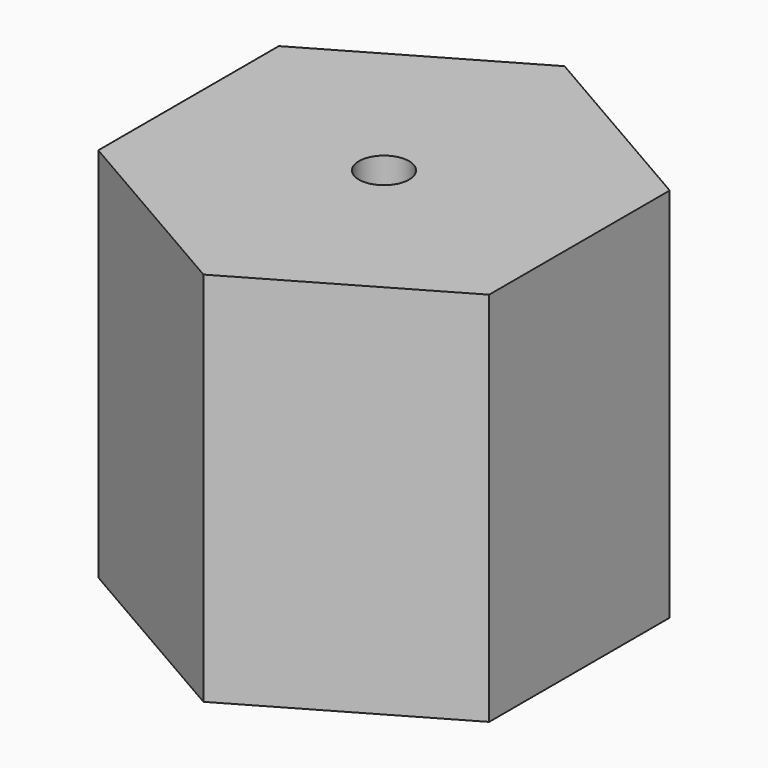
from build123d import *

# Parameters (mm, degrees)
F0_R     = 2
F1_DEPTH = 5
F2_DEPTH = 30
F3_START = 25
F3_DEPTH = 5


with BuildPart() as f1:
    # F0 (on Top) → F1 (new body)
    with BuildSketch(Plane.XY):
        Circle(F0_R)
    extrude(amount=F1_DEPTH)

    # F0 (on Top) → F2 (join)
    with BuildSketch(Plane.XY):
        Polygon((0, 18), (-15.5884572681, 9), (-15.5884572681, -9), (0, -18), (15.5884572681, -9), (15.5884572681, 9), (10.1517191776, 12.1389022001), (10.1517191776, 8.1389022001), (1.4914651398, 13.1389022001), (4.9555667549, 15.1389022001), align=None)
        Circle(F0_R, mode=Mode.SUBTRACT)
    extrude(amount=F2_DEPTH)

    # F0 (on Top) → F3 (join)
    with BuildSketch(Plane.XY.offset(F3_START)):
        Polygon((10.1517191776, 12.1389022001), (4.9555667549, 15.1389022001), (1.4914651398, 13.1389022001), (10.1517191776, 8.1389022001), align=None)
    extrude(amount=F3_DEPTH)


solid = f1.part
